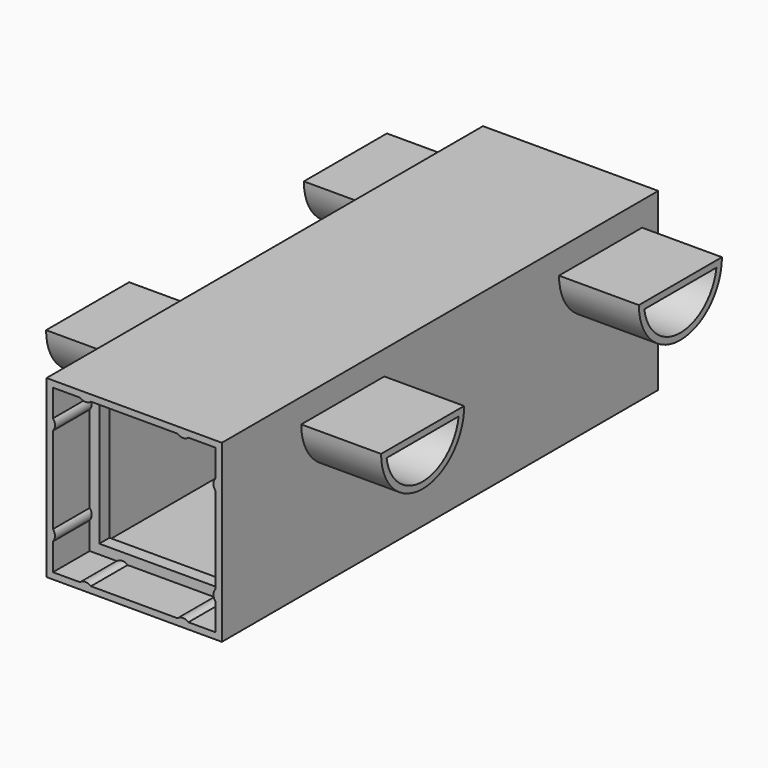
from build123d import *

# Parameters (mm, degrees)
SKETCH_W                     = 43.9
SKETCH_H                     = 43.9
SKETCH_W_2                   = 40.7
SKETCH_H_2                   = 40.7
PAD_DEPTH                    = 135
SKETCH001_W                  = 43.9
SKETCH001_H                  = 43.9
PAD001_DEPTH                 = 1.6
PAD002_DEPTH                 = 11.5
PAD002_POLARPATTERN_2_DEPTH  = 11.5
PAD002_POLARPATTERN_3_DEPTH  = 11.5
PAD002_POLARPATTERN_4_DEPTH  = 11.5
SKETCH003_W                  = 43.9
SKETCH003_H                  = 43.9
SKETCH003_W_2                = 35.9
SKETCH003_H_2                = 35.9
PAD003_DEPTH                 = 3.2
PAD004_DEPTH                 = 20
POCKET_DEPTH                 = 21.6
PAD004_LINEARPATTERN_2_DEPTH = 20
POCKET_LINEARPATTERN_2_DEPTH = 21.6


with BuildPart() as part:
    # Sketch → Pad (new body)
    with BuildSketch(Plane.XZ):
        Rectangle(SKETCH_W, SKETCH_H)
        Rectangle(SKETCH_W_2, SKETCH_H_2, mode=Mode.SUBTRACT)
    extrude(amount=PAD_DEPTH)

    # Sketch001 → Pad001 (join)
    with BuildSketch(Plane.XZ):
        Rectangle(SKETCH001_W, SKETCH001_H)
    extrude(amount=-PAD001_DEPTH)

    # Sketch002 → Pad002 (join)
    with BuildSketch(Plane.XZ.offset(135)):
        with BuildLine():
            ThreePointArc((-14.31, 21.95), (-12.21, 19.85), (-10.11, 21.95))
            Line((-14.31, 21.95), (-10.11, 21.95))
        make_face()
    pad002 = extrude(amount=-PAD002_DEPTH)

    # Sketch002 PolarPattern 2 → Pad002 PolarPattern 2 (add)
    with BuildSketch(Plane(origin=(0, -135, 0), x_dir=(0, 0, 1), z_dir=(0, -1, 0))):
        with BuildLine():
            ThreePointArc((-14.31, 21.95), (-12.21, 19.85), (-10.11, 21.95))
            Line((-14.31, 21.95), (-10.11, 21.95))
        make_face()
    pad002_polarpattern_2 = extrude(amount=-PAD002_POLARPATTERN_2_DEPTH)

    # Sketch002 PolarPattern 3 → Pad002 PolarPattern 3 (add)
    with BuildSketch(Plane(origin=(0, -135, 0), x_dir=(-1, 0, 0), z_dir=(0, -1, 0))):
        with BuildLine():
            ThreePointArc((-14.31, 21.95), (-12.21, 19.85), (-10.11, 21.95))
            Line((-14.31, 21.95), (-10.11, 21.95))
        make_face()
    pad002_polarpattern_3 = extrude(amount=-PAD002_POLARPATTERN_3_DEPTH)

    # Sketch002 PolarPattern 4 → Pad002 PolarPattern 4 (add)
    with BuildSketch(Plane(origin=(0, -135, 0), x_dir=(0, 0, -1), z_dir=(0, -1, 0))):
        with BuildLine():
            ThreePointArc((-14.31, 21.95), (-12.21, 19.85), (-10.11, 21.95))
            Line((-14.31, 21.95), (-10.11, 21.95))
        make_face()
    pad002_polarpattern_4 = extrude(amount=-PAD002_POLARPATTERN_4_DEPTH)

    # Mirrored: Pad002, Pad002 PolarPattern 2, Pad002 PolarPattern 3, Pad002 PolarPattern 4 across Sketch002 V_Axis
    add(pad002.mirror(Plane(origin=(0, -135, 0), x_dir=(0, -1, 0), z_dir=(1, 0, 0))))
    add(pad002_polarpattern_2.mirror(Plane(origin=(0, -135, 0), x_dir=(0, -1, 0), z_dir=(1, 0, 0))))
    add(pad002_polarpattern_3.mirror(Plane(origin=(0, -135, 0), x_dir=(0, -1, 0), z_dir=(1, 0, 0))))
    add(pad002_polarpattern_4.mirror(Plane(origin=(0, -135, 0), x_dir=(0, -1, 0), z_dir=(1, 0, 0))))

    # Sketch003 → Pad003 (join)
    with BuildSketch(Plane.XZ.offset(123.5)):
        Rectangle(SKETCH003_W, SKETCH003_H)
        Rectangle(SKETCH003_W_2, SKETCH003_H_2, mode=Mode.SUBTRACT)
    extrude(amount=-PAD003_DEPTH)

    # Sketch004 → Pad004 (join)
    with BuildSketch(Plane.YZ.offset(21.95)):
        with BuildLine():
            ThreePointArc((-110.154, 15.896), (-97.154, 2.896), (-84.154, 15.896))
            Line((-110.154, 15.896), (-84.154, 15.896))
        make_face()
    pad004 = extrude(amount=PAD004_DEPTH)

    # Sketch005 → Pocket (cut)
    with BuildSketch(Plane.YZ.offset(41.95)):
        with BuildLine():
            ThreePointArc((-108.441161, 14.296), (-97.154, 4.496), (-85.866839, 14.296))
            Line((-108.441161, 14.296), (-85.866839, 14.296))
        make_face()
    pocket = extrude(amount=-POCKET_DEPTH, mode=Mode.SUBTRACT)

    # Sketch004 LinearPattern 2 → Pad004 LinearPattern 2 (add)
    with BuildSketch(Plane(origin=(21.95, 80.69, 0), x_dir=(0, 1, 0), z_dir=(1, 0, 0))):
        with BuildLine():
            ThreePointArc((-110.154, 15.896), (-97.154, 2.896), (-84.154, 15.896))
            Line((-110.154, 15.896), (-84.154, 15.896))
        make_face()
    pad004_linearpattern_2 = extrude(amount=PAD004_LINEARPATTERN_2_DEPTH)

    # Sketch005 LinearPattern 2 → Pocket LinearPattern 2 (cut)
    with BuildSketch(Plane(origin=(41.95, 80.69, 0), x_dir=(0, 1, 0), z_dir=(1, 0, 0))):
        with BuildLine():
            ThreePointArc((-108.441161, 14.296), (-97.154, 4.496), (-85.866839, 14.296))
            Line((-108.441161, 14.296), (-85.866839, 14.296))
        make_face()
    pocket_linearpattern_2 = extrude(amount=-POCKET_LINEARPATTERN_2_DEPTH, mode=Mode.SUBTRACT)

    # Mirrored001: Pad004, Pocket, Pad004 LinearPattern 2, Pocket LinearPattern 2 across YZ
    add(pad004.mirror(Plane.YZ))
    add(pocket.mirror(Plane.YZ), mode=Mode.SUBTRACT)
    add(pad004_linearpattern_2.mirror(Plane.YZ))
    add(pocket_linearpattern_2.mirror(Plane.YZ), mode=Mode.SUBTRACT)


solid = part.part
